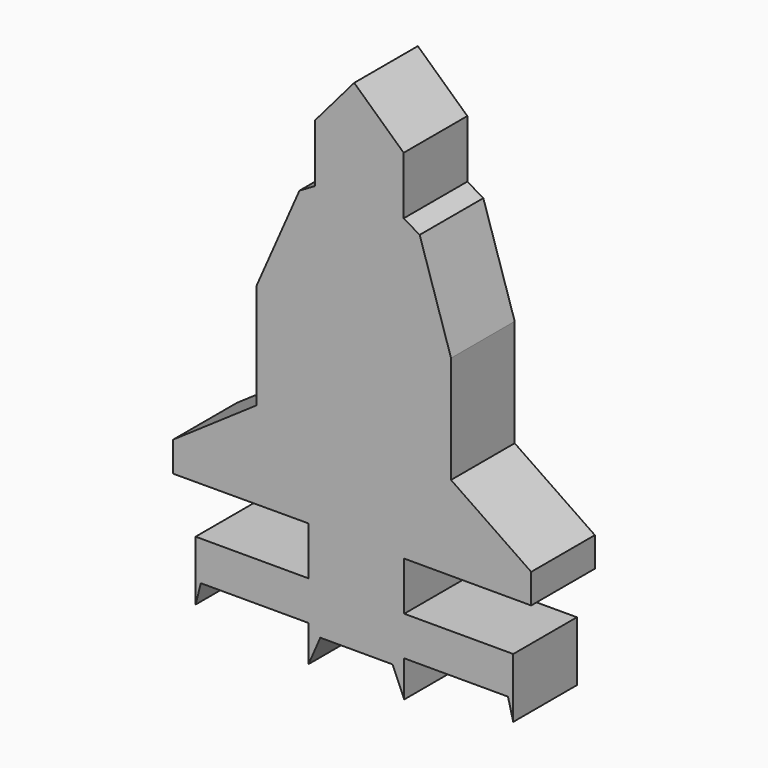
from build123d import *

# Parameters (mm, degrees)
F1_DEPTH = 12.7
F3_DEPTH = 25.4


with BuildPart() as f1:
    # F0 (on Front) → F1 (new body, symmetric)
    with BuildSketch(Plane.XZ):
        Polygon((76.149002, -90.188817), (23.955871, -90.188817), (23.955871, -108.98447), (73.632754, -108.98447), (76.149002, -108.98447), align=None)
        Polygon((-26.226501, 71.838117), (-46.857657, 24.861308), (-18.735342, 24.861308), (-18.735342, 76.213843), align=None)
        Polygon((-21.858013, -108.98447), (-21.858013, -90.188817), (-75.945616, -90.188817), (-75.945616, -108.98447), (-73.429369, -108.98447), align=None)
        Polygon((23.682658, 24.861308), (46.360343, 24.861308), (31.345836, 71.915283), (23.682658, 76.391488), align=None)
        Polygon((23.955871, -108.98447), (23.955871, -90.188817), (-21.858013, -90.188817), (-21.858013, -108.98447), (-21.858013, -113.354925), (-16.243775, -113.354925), (18.341633, -113.354925), (23.955871, -113.354925), align=None)
        Polygon((84.747062, -52.772217), (46.360343, -26.517794), (23.955871, -66.93653), (84.747062, -66.93653), align=None)
        Polygon((23.955871, -90.188817), (23.955871, -66.93653), (-21.858013, -67.02271), (-21.858013, -90.188817), align=None)
        with BuildLine():
            Line((23.955871, -66.93653), (46.360343, -26.517794))
            Line((46.360343, -26.517794), (46.360343, 24.861308))
            Line((46.360343, 24.861308), (23.682658, 24.861308))
            Line((23.682658, 24.861308), (14.006169, 54.149518))
            ThreePointArc((14.006169, 54.149518), (1.720444, 57.216973), (-10.339578, 53.356381))
            Line((-10.339578, 53.356381), (-18.735342, 24.861308))
            Line((-18.735342, 24.861308), (-46.857657, 24.861308))
            Line((-46.857657, 24.861308), (-46.857657, -25.416315))
            Line((-46.857657, -25.416315), (-21.858013, -67.02271))
            Line((-21.858013, -67.02271), (23.955871, -66.93653))
        make_face()
        Polygon((-86.693834, -67.14467), (-21.858013, -67.02271), (-46.857657, -25.416315), (-86.693834, -52.772217), align=None)
        with BuildLine():
            Line((14.006169, 54.149518), (23.682658, 24.861308))
            Line((23.682658, 24.861308), (23.682658, 76.391488))
            Line((23.682658, 76.391488), (23.682658, 104.028458))
            Line((23.682658, 104.028458), (0, 125.813976))
            Line((0, 125.813976), (-18.735342, 103.940204))
            Line((-18.735342, 103.940204), (-18.735342, 76.213843))
            Line((-18.735342, 76.213843), (-18.735342, 24.861308))
            Line((-18.735342, 24.861308), (-10.339578, 53.356381))
            ThreePointArc((-10.339578, 53.356381), (1.720444, 57.216973), (14.006169, 54.149518))
        make_face()
        Polygon((76.149002, -108.98447), (73.632754, -108.98447), (76.149002, -118.820232), align=None)
        Polygon((-75.945616, -118.820232), (-73.429369, -108.98447), (-75.945616, -108.98447), align=None)
        Polygon((23.955871, -126.334879), (23.955871, -113.354925), (18.341633, -113.354925), align=None)
        Polygon((-16.243775, -113.354925), (-21.858013, -113.354925), (-21.858013, -126.334879), align=None)
    extrude(amount=F1_DEPTH, both=True)

    # F0 (on Front) → F3 (join)
    with BuildSketch(Plane.XZ):
        Polygon((84.747062, -52.772217), (46.360343, -26.517794), (23.955871, -66.93653), (84.747062, -66.93653), align=None)
        with BuildLine():
            Line((23.955871, -66.93653), (46.360343, -26.517794))
            Line((46.360343, -26.517794), (46.360343, 24.861308))
            Line((46.360343, 24.861308), (23.682658, 24.861308))
            Line((23.682658, 24.861308), (14.006169, 54.149518))
            ThreePointArc((14.006169, 54.149518), (1.720444, 57.216973), (-10.339578, 53.356381))
            Line((-10.339578, 53.356381), (-18.735342, 24.861308))
            Line((-18.735342, 24.861308), (-46.857657, 24.861308))
            Line((-46.857657, 24.861308), (-46.857657, -25.416315))
            Line((-46.857657, -25.416315), (-21.858013, -67.02271))
            Line((-21.858013, -67.02271), (23.955871, -66.93653))
        make_face()
        Polygon((23.955871, -90.188817), (23.955871, -66.93653), (-21.858013, -67.02271), (-21.858013, -90.188817), align=None)
        Polygon((23.682658, 24.861308), (46.360343, 24.861308), (31.345836, 71.915283), (23.682658, 76.391488), align=None)
        Polygon((-86.693834, -67.14467), (-21.858013, -67.02271), (-46.857657, -25.416315), (-86.693834, -52.772217), align=None)
        Polygon((76.149002, -90.188817), (23.955871, -90.188817), (23.955871, -108.98447), (73.632754, -108.98447), (76.149002, -108.98447), align=None)
        Polygon((23.955871, -108.98447), (23.955871, -90.188817), (-21.858013, -90.188817), (-21.858013, -108.98447), (-21.858013, -113.354925), (-16.243775, -113.354925), (18.341633, -113.354925), (23.955871, -113.354925), align=None)
        with BuildLine():
            Line((14.006169, 54.149518), (23.682658, 24.861308))
            Line((23.682658, 24.861308), (23.682658, 76.391488))
            Line((23.682658, 76.391488), (23.682658, 104.028458))
            Line((23.682658, 104.028458), (0, 125.813976))
            Line((0, 125.813976), (-18.735342, 103.940204))
            Line((-18.735342, 103.940204), (-18.735342, 76.213843))
            Line((-18.735342, 76.213843), (-18.735342, 24.861308))
            Line((-18.735342, 24.861308), (-10.339578, 53.356381))
            ThreePointArc((-10.339578, 53.356381), (1.720444, 57.216973), (14.006169, 54.149518))
        make_face()
        Polygon((-21.858013, -108.98447), (-21.858013, -90.188817), (-75.945616, -90.188817), (-75.945616, -108.98447), (-73.429369, -108.98447), align=None)
        Polygon((-26.226501, 71.838117), (-46.857657, 24.861308), (-18.735342, 24.861308), (-18.735342, 76.213843), align=None)
        Polygon((23.955871, -126.334879), (23.955871, -113.354925), (18.341633, -113.354925), align=None)
        Polygon((76.149002, -108.98447), (73.632754, -108.98447), (76.149002, -118.820232), align=None)
        Polygon((-16.243775, -113.354925), (-21.858013, -113.354925), (-21.858013, -126.334879), align=None)
        Polygon((-75.945616, -118.820232), (-73.429369, -108.98447), (-75.945616, -108.98447), align=None)
    extrude(amount=F3_DEPTH)


solid = f1.part
